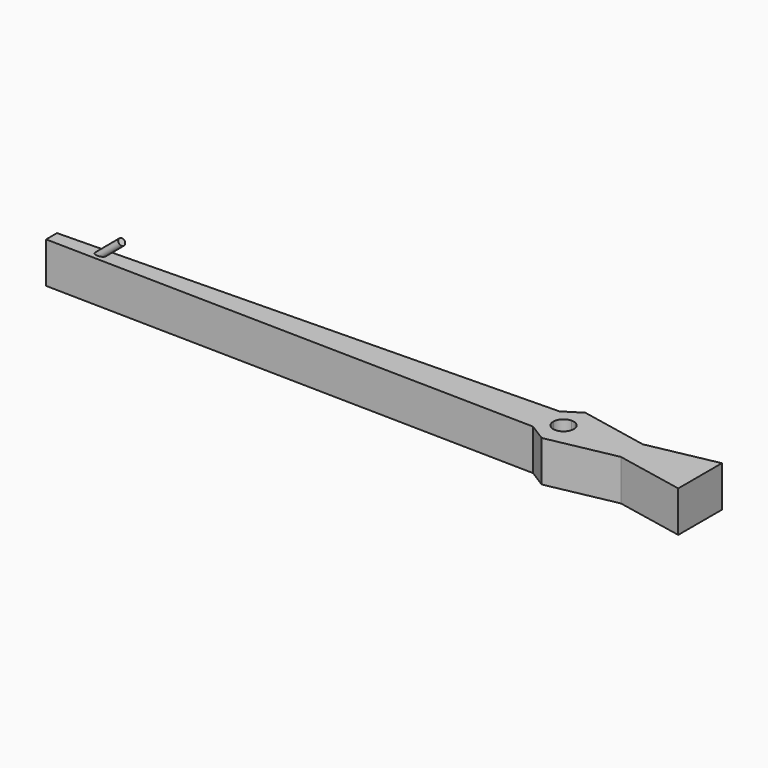
from build123d import *

# Parameters (mm, degrees)
F1_DEPTH = 38.1


with BuildPart() as f1:
    # F0 (on Top) → F1 (new body)
    with BuildSketch(Plane.XY):
        Polygon((0, 12.7), (0, 0), (63.5, 0), (63.5, 25.4), align=None)
        with BuildLine():
            Line((0, -12.7), (0, 0))
            Line((0, 0), (-53.975, 0))
            ThreePointArc((-53.975, 0), (-56.7648079092, -6.7351920908), (-63.5, -9.525))
            Line((-63.5, -9.525), (-63.5, -25.4))
            Line((-63.5, -25.4), (0, -12.7))
        make_face()
        with BuildLine():
            Line((-53.975, 0), (0, 0))
            Line((0, 0), (0, 12.7))
            Line((0, 12.7), (-63.5, 25.4))
            Line((-63.5, 25.4), (-63.5, 15.3279768429))
            Line((-63.5, 15.3279768429), (-63.5, 9.525))
            ThreePointArc((-63.5, 9.525), (-56.7648079092, 6.7351920908), (-53.975, 0))
        make_face()
        Polygon((63.5, 0), (0, 0), (0, -12.7), (63.5, -25.4), align=None)
        with BuildLine():
            ThreePointArc((-73.025, 0), (-70.2351920908, 6.7351920908), (-63.5, 9.525))
            Line((-63.5, 9.525), (-63.5, 15.3279768429))
            Line((-63.5, 15.3279768429), (-79.6696273774, 15.3279768429))
            Line((-79.6696273774, 15.3279768429), (-79.6696273774, 0))
            Line((-79.6696273774, 0), (-73.025, 0))
        make_face()
        with BuildLine():
            Line((-63.5, -25.4), (-63.5, -9.525))
            ThreePointArc((-63.5, -9.525), (-70.2351920908, -6.7351920908), (-73.025, 0))
            Line((-73.025, 0), (-79.6696273774, 0))
            Line((-79.6696273774, 0), (-79.6696273774, -15.3279768429))
            Line((-79.6696273774, -15.3279768429), (-63.5, -25.4))
        make_face()
        Polygon((-63.5, 15.3279768429), (-63.5, 25.4), (-79.6696273774, 15.3279768429), align=None)
        Polygon((-79.6696273774, 0), (-79.6696273774, 15.3279768429), (-539.75, 6.35), (-539.75, 0), align=None)
        Polygon((-539.75, -6.35), (-79.6696273774, -15.3279768429), (-79.6696273774, 0), (-539.75, 0), align=None)
    extrude(amount=F1_DEPTH)

    # F2 (on Front) → F3 (revolve)
    with BuildSketch(Plane.XZ):
        Polygon((-499.0886840569, 38.1), (-494.1492609066, 38.1), (-496.1901115673, 40.5321911069), align=None)
        Polygon((-494.1492609066, 38.1), (-474.4741966728, 54.6093391419), (-476.5150473336, 57.0415302488), (-496.1901115673, 40.5321911069), align=None)
    revolve(axis=Axis((-507.0146347286, 0, 27.304669571), (0.7660444431, 0, 0.6427876097)))


solid = f1.part
